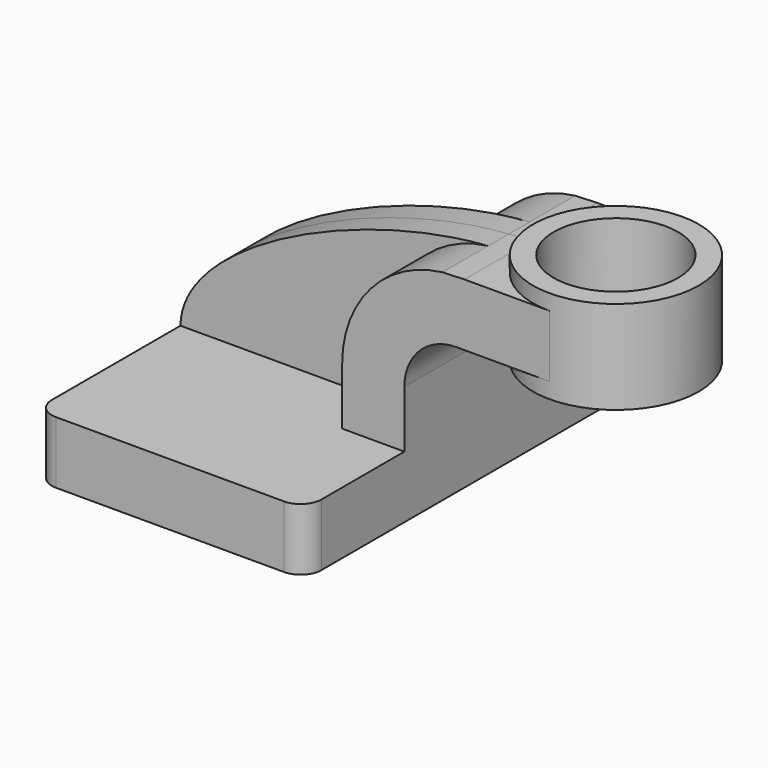
from build123d import *

# Parameters (mm, degrees)
F1_DEPTH = 63.5
F0_W     = 25.4
F0_H     = 19.05
F2_DEPTH = 25.4
F3_DEPTH = 7.9375
F5_R     = 6.35
F6_R     = 19.05
F7_DEPTH = 28.575


with BuildPart() as f1:
    # F0 (on Front) → F1 (new body, symmetric)
    with BuildSketch(Plane.XZ):
        Polygon((22.225, 9.525), (-41.275, 9.525), (-41.275, -9.525), (41.275, -9.525), (41.275, 9.525), align=None)
    extrude(amount=F1_DEPTH, both=True)

    # F0 (on Front) → F2 (join, symmetric)
    with BuildSketch(Plane.XZ):
        with BuildLine():
            Line((22.225, 27.0002), (22.225, 9.525))
            Line((22.225, 9.525), (41.275, 9.525))
            Line((41.275, 9.525), (41.275, 27.0002))
            ThreePointArc((41.275, 27.0002), (45.9246798487, 38.2255201513), (57.15, 42.8752))
            Line((57.15, 42.8752), (60.325, 42.8752))
            Line((60.325, 42.8752), (60.325, 61.9252))
            Line((60.325, 61.9252), (59.6934049136, 61.9252))
            add(Edge.make_bspline(
                [(52.9561563715, 61.6724843294), (55.2525673411, 61.8319540941), (57.5026044371, 61.9176558632), (59.6934049136, 61.9252)],
                knots=[107.5361075689, 107.5361075689, 107.5361075689, 107.5361075689, 113.7209316461, 113.7209316461, 113.7209316461, 113.7209316461], degree=3))
            ThreePointArc((52.9561563715, 61.6724843294), (31.013573181, 50.165752403), (22.225, 27.0002))
        make_face()
        with Locations((73.025, 52.4002)):
            Rectangle(F0_W, F0_H)
    extrude(amount=F2_DEPTH, both=True)

    # F0 (on Front) → F3 (join, symmetric)
    with BuildSketch(Plane.XZ):
        with BuildLine():
            add(Edge.make_bspline(
                [(-41.275, 9.525), (-40.9189941995, 33.8261781517), (13.0282467061, 58.8997687996), (52.9561563715, 61.6724843294)],
                knots=[0, 0, 0, 0, 107.5361075689, 107.5361075689, 107.5361075689, 107.5361075689], degree=3))
            Line((-41.275, 9.525), (22.225, 9.525))
            Line((22.225, 9.525), (22.225, 27.0002))
            ThreePointArc((22.225, 27.0002), (31.013573181, 50.165752403), (52.9561563715, 61.6724843294))
        make_face()
    extrude(amount=F3_DEPTH, both=True)

    # F0 (on Front) → F4 (revolve)
    with BuildSketch(Plane.XZ):
        Polygon((85.725, 66.675), (85.725, 61.9252), (85.725, 42.8752), (85.725, 38.1), (111.125, 38.1), (111.125, 66.675), align=None)
    revolve(axis=Axis((85.725, 0, 52.3875), (0, 0, 1)))

    # F5
    f5_edges = [f1.edges().sort_by_distance(p)[0] for p in [
        (41.275, -63.5, 0),
        (-41.275, -63.5, 0),
        (41.275, 63.5, 0),
        (-41.275, 63.5, 0),
    ]]
    fillet(f5_edges, radius=F5_R)

    # F6 (on face) → F7 (cut, through all)
    with BuildSketch(Plane.XY.offset(66.675)):
        with Locations((85.725, 0)):
            Circle(F6_R)
    extrude(amount=-F7_DEPTH, mode=Mode.SUBTRACT)


solid = f1.part
